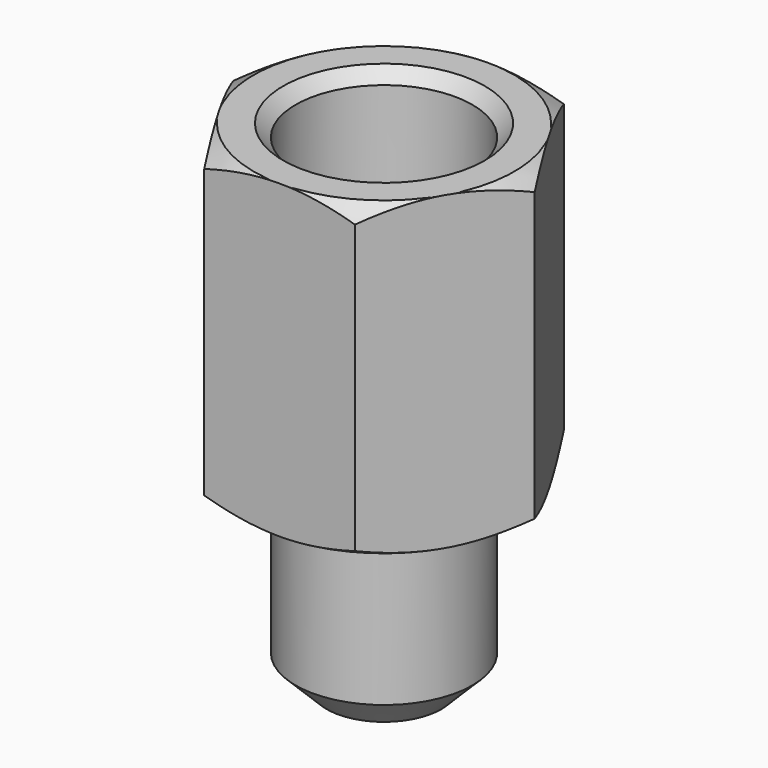
from build123d import *

# Parameters (mm, degrees)
SKETCH013_R     = 3.630449
POCKET007_DEPTH = 8.001
CHAMFER_SIZE    = 0.2


with BuildPart() as part:
    # Sketch012 → Revolution001 (revolve)
    with BuildSketch(Plane.XZ):
        Polygon((1.4224, 5), (1.4224, 1.821223), (0, 1), (0, -3), (0.9224, -3), (1.4224, -2.5), (1.4224, 0), (2.1, 0), (3.1, 0.57735), (3.1, 4.42265), (2.1, 5), align=None)
    revolve(axis=Axis((0, 0, 0), (0, 0, 1)))

    # Sketch013 (on Face10 of Revolution001) → Pocket007 (cut, through all)
    with BuildSketch(Plane(origin=(0, 0, 5), x_dir=(-1, 0, 0), z_dir=(0, 0, 1))):
        Circle(SKETCH013_R)
        Polygon((2.424871, 0), (1.212436, 2.1), (-1.212436, 2.1), (-2.424871, 0), (-1.212436, -2.1), (1.212436, -2.1), align=None, mode=Mode.SUBTRACT)
    extrude(amount=-POCKET007_DEPTH, mode=Mode.SUBTRACT)

    # Chamfer
    chamfer_edges = [part.edges().sort_by_distance(p)[0] for p in [
        (-1.4224, 0, 5),
    ]]
    chamfer(chamfer_edges, length=CHAMFER_SIZE)


with BuildPart() as part_1:
    # Body004 placement: moved
    add(part.part.moved(Location((-12.495, 0, 0.9))))


with BuildPart() as part_2:
    # Clone001 placement: moved
    add(part_1.part.moved(Location((12.495, 0, -0.9))))


with BuildPart() as part_3:
    # Body005 placement: moved
    add(part_2.part.moved(Location((12.495, 0, 0.9))))


solid = part_3.part
